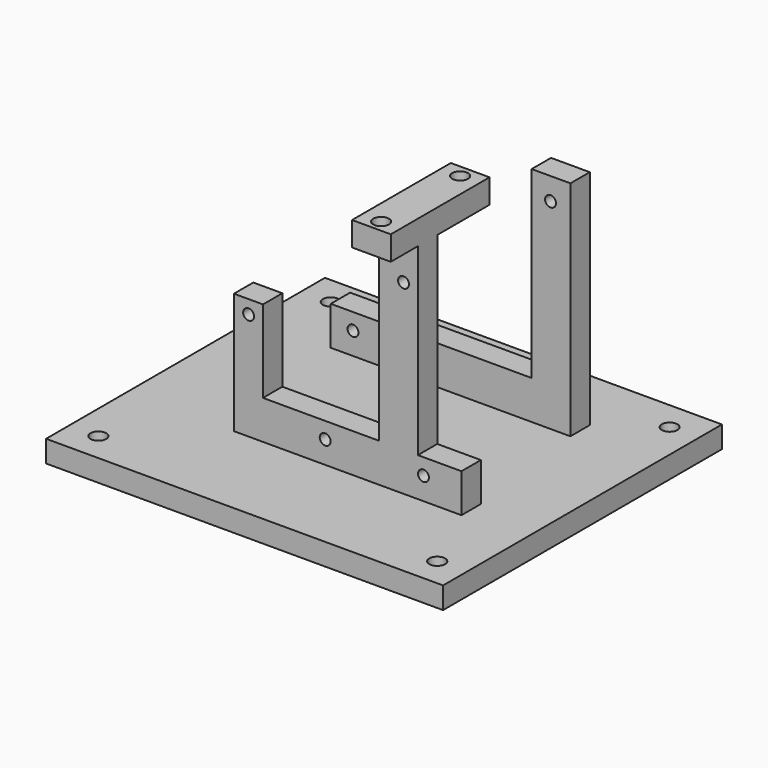
from build123d import *

# Parameters (mm, degrees)
EXTRUDE031_DEPTH = 5
SKETCH021_R      = 1.125
EXTRUDE005_DEPTH = 5
SKETCH020_W      = 8
SKETCH020_H      = 25.5
SKETCH020_R      = 1.625
EXTRUDE004_DEPTH = 5
SKETCH019_R      = 1.125
EXTRUDE003_DEPTH = 5
SKETCH093_W      = 82
SKETCH093_H      = 72
SKETCH093_R      = 1.625
EXTRUDE030_DEPTH = 4.5


with BuildPart() as obj1:
    # Sketch094 → Extrude031 (new body)
    with BuildSketch(Plane.XY):
        with BuildLine():
            ThreePointArc((-7.5, -283.5), (-12.5, -288.5), (-7.5, -293.5))
            Line((-7.5, -293.5), (0, -293.5))
            ThreePointArc((0, -293.5), (5, -288.5), (0, -283.5))
            Line((0, -283.5), (-7.5, -283.5))
        make_face()
    extrude(amount=EXTRUDE031_DEPTH)


with BuildPart() as obj1_1:
    # Extrude031 placement: moved
    add(obj1.part.moved(Location((0, 0, -309.75))))


with BuildPart() as obj2:
    # Sketch021 (on Extrude) → Extrude005 (new body)
    with BuildSketch(Plane.XZ):
        Polygon((-25, -309), (-25, -301), (16.5, -301), (16.5, -263), (24.5, -263), (24.5, -309), align=None)
        with Locations((-20.4, -304.4)):
            Circle(SKETCH021_R, mode=Mode.SUBTRACT)
        with Locations((20.4, -267.6)):
            Circle(SKETCH021_R, mode=Mode.SUBTRACT)
    extrude(amount=EXTRUDE005_DEPTH)


with BuildPart() as obj2_1:
    # Extrude005 placement: moved
    add(obj2.part.moved(Location((0, -262.5, 0))))


with BuildPart() as gpshold:
    # Sketch020 → Extrude004 (new body)
    with BuildSketch(Plane.XY.offset(-263)):
        with Locations((15, -294.25)):
            Rectangle(SKETCH020_W, SKETCH020_H)
        with Locations((15, -284.1)):
            Circle(SKETCH020_R, mode=Mode.SUBTRACT)
        with Locations((15, -304.5)):
            Circle(SKETCH020_R, mode=Mode.SUBTRACT)
    extrude(amount=EXTRUDE004_DEPTH)


with BuildPart() as obj3:
    # Sketch019 → Extrude003 (new body)
    with BuildSketch(Plane.XZ.offset(295)):
        Polygon((28, -309), (28, -301), (19, -301), (19, -263), (11, -263), (11, -301), (-13, -301), (-13, -284), (-19, -284), (-19, -309), align=None)
        with Locations((-15.96, -286.8)):
            Circle(SKETCH019_R, mode=Mode.SUBTRACT)
        with Locations((-0.15, -304.37)):
            Circle(SKETCH019_R, mode=Mode.SUBTRACT)
        with Locations((20.15, -304.37)):
            Circle(SKETCH019_R, mode=Mode.SUBTRACT)
        with Locations((16.04, -270.55)):
            Circle(SKETCH019_R, mode=Mode.SUBTRACT)
    extrude(amount=EXTRUDE003_DEPTH)


with BuildPart() as base012:
    # Sketch093 → Extrude030 (new body)
    with BuildSketch(Plane.XY):
        with Locations((0, -285)):
            Rectangle(SKETCH093_W, SKETCH093_H)
        with Locations((-35, -315)):
            Circle(SKETCH093_R, mode=Mode.SUBTRACT)
        with Locations((35, -315)):
            Circle(SKETCH093_R, mode=Mode.SUBTRACT)
        with Locations((35, -255)):
            Circle(SKETCH093_R, mode=Mode.SUBTRACT)
        with Locations((-35, -255)):
            Circle(SKETCH093_R, mode=Mode.SUBTRACT)
        with BuildLine():
            ThreePointArc((-3.658125, -285.3), (-12.5, -288.5), (-3.658125, -291.7))
            Line((-0.399218, -291.675), (-3.658125, -291.7))
            ThreePointArc((-0.399218, -291.675), (3.2, -288.5), (-0.399218, -285.325))
            Line((-0.399218, -285.325), (-3.658125, -285.3))
        make_face(mode=Mode.SUBTRACT)
        with BuildLine():
            ThreePointArc((-2, -253), (-4, -255), (-2, -257))
            Line((2, -258), (-2, -257))
            ThreePointArc((2, -258), (5, -255), (2, -252))
            Line((-2, -253), (2, -252))
        make_face(mode=Mode.SUBTRACT)
    extrude(amount=EXTRUDE030_DEPTH)


with BuildPart() as base012_1:
    # Extrude030 placement: moved
    add(base012.part.moved(Location((0, 0, -313.5))))

    # Fusion078: union obj2, gpsHold, obj3
    add(obj2_1.part)
    add(gpshold.part)
    add(obj3.part)

    # Cut035: cut obj1
    add(obj1_1.part, mode=Mode.SUBTRACT)


with BuildPart() as base012_2:
    # Cut035 placement: moved
    add(base012_1.part.moved(Location((2, -621.5, 132))))


solid = base012_2.part
